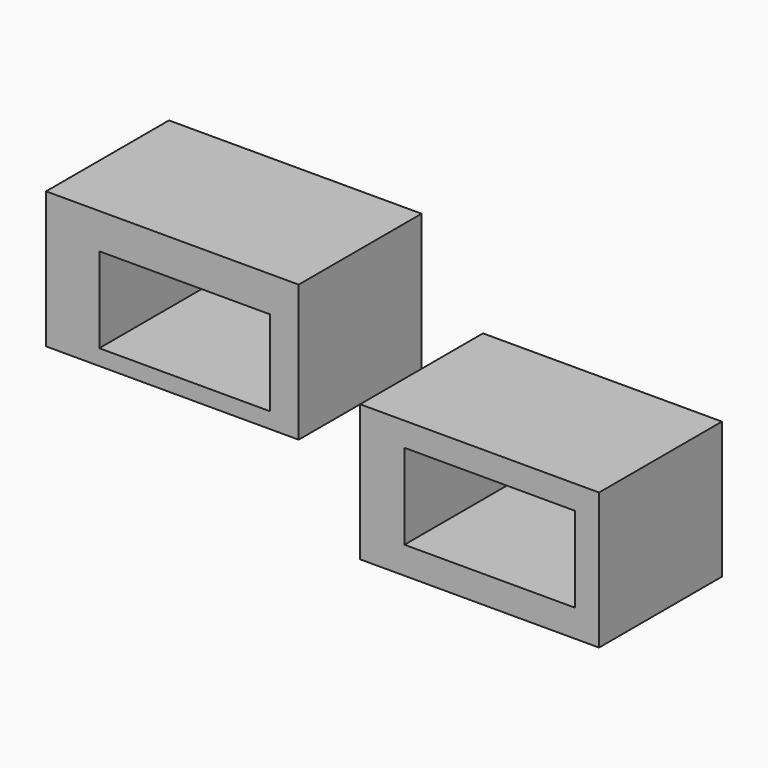
from build123d import *

# Parameters (mm, degrees)
F0_W     = 1778
F0_H     = 1016
F0_W_2   = 1270
F0_H_2   = 635
F1_DEPTH = 1143
F2_W     = 1879.6
F2_H     = 1016
F2_W_2   = 1270
F2_H_2   = 635
F3_DEPTH = 571.5


with BuildPart() as f1:
    # F0 (on Front) → F1 (new body)
    with BuildSketch(Plane.XZ):
        with Locations((889, -508)):
            Rectangle(F0_W, F0_H)
        with Locations((965.2, -495.3)):
            Rectangle(F0_W_2, F0_H_2, mode=Mode.SUBTRACT)
    extrude(amount=F1_DEPTH)


with BuildPart() as f3:
    # F2 (on face) → F3 (new body, symmetric)
    with BuildSketch(Plane.XZ.offset(1143)):
        with Locations((-939.8, 508)):
            Rectangle(F2_W, F2_H)
        with Locations((-848.880494, 434.51113)):
            Rectangle(F2_W_2, F2_H_2, mode=Mode.SUBTRACT)
    extrude(amount=F3_DEPTH, both=True)


solid = Compound([f1.part, f3.part])
